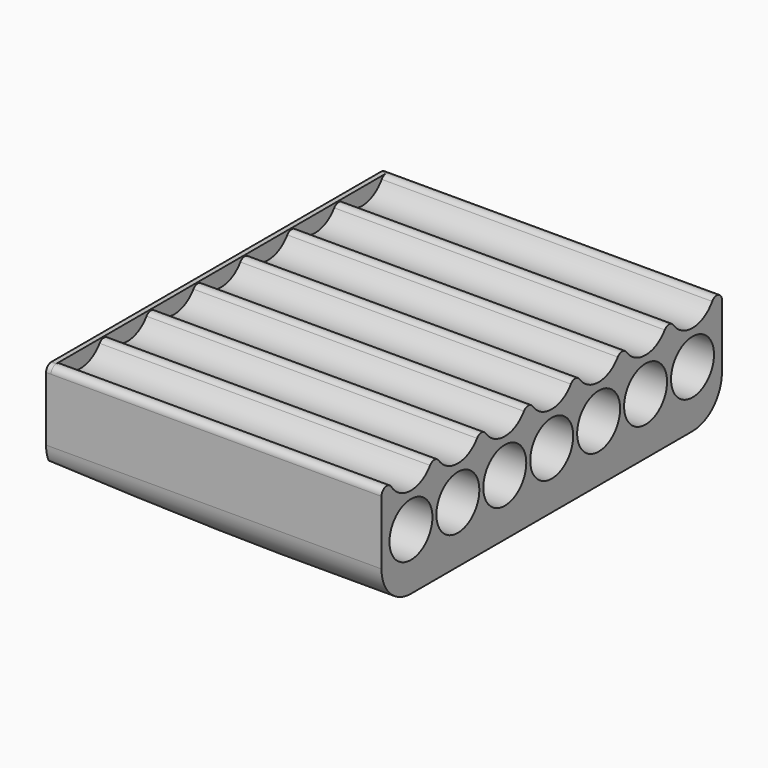
from build123d import *

# Parameters (mm, degrees)
F0_R     = 6.5
F1_DEPTH = 80
F2_R     = 1.6
F4_DEPTH = 1.2
F6_DEPTH = 100


with BuildPart() as f1:
    # F0 (on Right) → F1 (new body)
    with BuildSketch(Plane.YZ):
        with BuildLine():
            ThreePointArc((-8.9, -4.8), (-6.29325, -11.09325), (0, -13.7))
            Line((0, -13.7), (85.2, -13.7))
            ThreePointArc((85.2, -13.7), (91.49325, -11.09325), (94.1, -4.8))
            Line((94.1, -4.8), (94.1, 11))
            ThreePointArc((94.1, 11), (93.611063, 13.015835), (92.252914, 14.583662))
            ThreePointArc((92.252914, 14.583662), (84.791152, 8.311781), (78.1, 15.4))
            ThreePointArc((78.1, 15.4), (71, 8.3), (63.9, 15.4))
            ThreePointArc((63.9, 15.4), (56.8, 8.3), (49.7, 15.4))
            ThreePointArc((49.7, 15.4), (42.6, 8.3), (35.5, 15.4))
            ThreePointArc((35.5, 15.4), (28.4, 8.3), (21.3, 15.4))
            ThreePointArc((21.3, 15.4), (14.2, 8.3), (7.1, 15.4))
            ThreePointArc((7.1, 15.4), (0.408848, 8.311781), (-7.052914, 14.583662))
            ThreePointArc((-7.052914, 14.583662), (-8.411063, 13.015835), (-8.9, 11))
            Line((-8.9, 11), (-8.9, -4.8))
        make_face()
        Circle(F0_R, mode=Mode.SUBTRACT)
        with Locations((14.2, 0)):
            Circle(F0_R, mode=Mode.SUBTRACT)
        with Locations((28.4, 0)):
            Circle(F0_R, mode=Mode.SUBTRACT)
        with Locations((42.6, 0)):
            Circle(F0_R, mode=Mode.SUBTRACT)
        with Locations((56.8, 0)):
            Circle(F0_R, mode=Mode.SUBTRACT)
        with Locations((71, 0)):
            Circle(F0_R, mode=Mode.SUBTRACT)
        with Locations((85.2, 0)):
            Circle(F0_R, mode=Mode.SUBTRACT)
    extrude(amount=F1_DEPTH)

    # F2
    f2_edges = [f1.edges().sort_by_distance(p)[0] for p in [
        (40, 78.1, 15.4),
        (40, 63.9, 15.4),
        (40, 49.7, 15.4),
        (40, 35.5, 15.4),
        (40, 21.3, 15.4),
        (40, 7.1, 15.4),
        (40, 92.252914, 14.583662),
        (40, -7.052914, 14.583662),
    ]]
    fillet(f2_edges, radius=F2_R)

    # F3 (on face) → F4 (join)
    with BuildSketch(Plane(origin=(0, 0, 0), x_dir=(0, -1, 0), z_dir=(-1, 0, 0))):
        with BuildLine():
            ThreePointArc((-92.5, 12.267136), (-93.631371, 11.798507), (-94.1, 10.667136))
            Line((-94.1, 10.667136), (-94.1, -4.8))
            ThreePointArc((-94.1, -4.8), (-91.49325, -11.09325), (-85.2, -13.7))
            Line((-85.2, -13.7), (0, -13.7))
            ThreePointArc((0, -13.7), (6.29325, -11.09325), (8.9, -4.8))
            Line((8.9, -4.8), (8.9, 10.667136))
            ThreePointArc((8.9, 10.667136), (8.431371, 11.798507), (7.3, 12.267136))
            Line((7.3, 12.267136), (-92.5, 12.267136))
        make_face()
    extrude(amount=F4_DEPTH)

    # F5 (on Front) → F6 (cut, symmetric)
    with BuildSketch(Plane.XZ):
        Polygon((79.8, -13.7), (-1.2, -8.4), (-2.687202, -26.329059), (79.8, -25.427904), align=None)
    extrude(amount=F6_DEPTH, both=True, mode=Mode.SUBTRACT)


solid = f1.part
